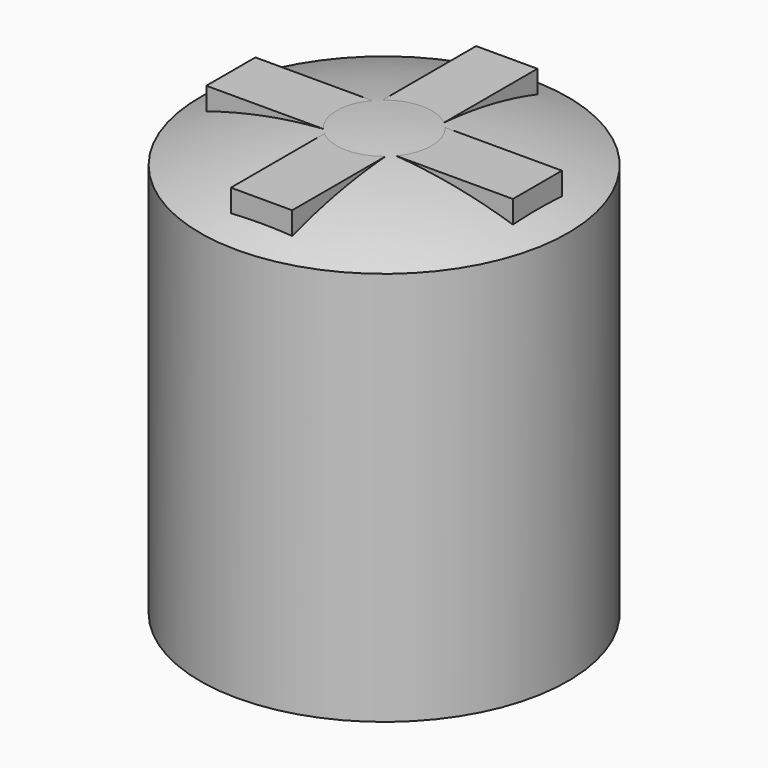
from build123d import *

# Parameters (mm, degrees)
F2_W     = 300
F2_H     = 750
F4_DEPTH = 159
F5_COUNT = 4


with BuildPart() as f3:
    # F1 (on Right) → F3 (revolve)
    with BuildSketch(Plane.YZ):
        with BuildLine():
            Line((-900, 0), (0, 0))
            Line((0, 0), (0, 2100))
            ThreePointArc((0, 2100), (-457.9574216016, 2057.1275261262), (-900, 1930))
            Line((-900, 1930), (-900, 0))
        make_face()
    revolve(axis=Axis((0, 0, 1050), (0, 0, -1)))



with BuildPart() as f4:
    # F2 (on offset) → F4 (new body)
    with BuildSketch(Plane.XY.offset(1930)):
        with Locations((0, -375)):
            Rectangle(F2_W, F2_H)
    extrude(amount=F4_DEPTH)


with BuildPart() as f3_1:
    add(f3.part)

    add(f4.part)  # F5 merges F4
    # F5: F4 ×4 about axis
    f5_axis = Axis((0, 0, 2582.4769020081), (0, 0, 1))
    for i in range(1, F5_COUNT):
        add(f4.part.rotate(f5_axis, i * 360 / F5_COUNT))


solid = f3_1.part
